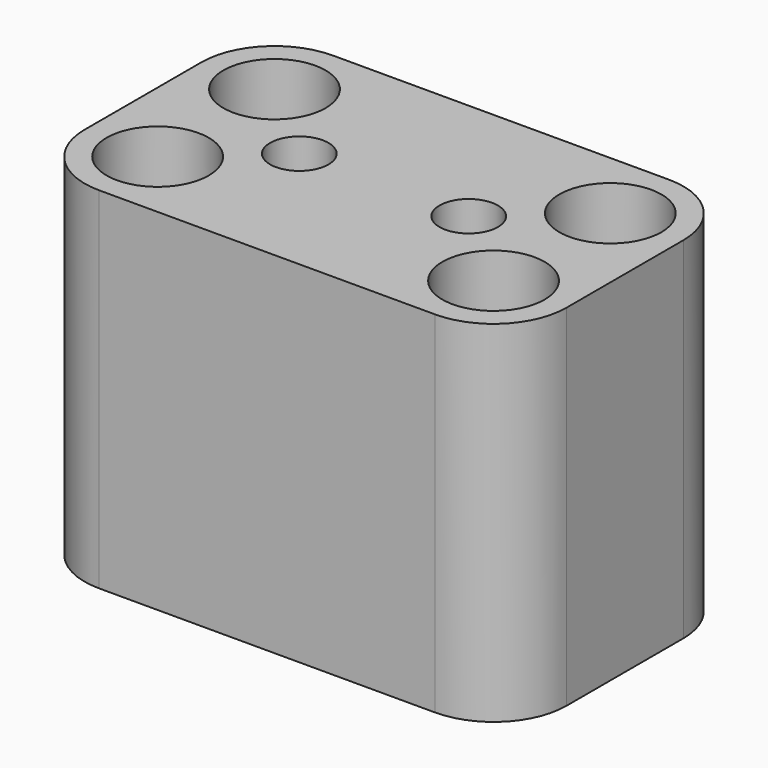
from build123d import *

# Parameters (mm, degrees)
F0_R     = 1.75
F1_DEPTH = 12
F2_DEPTH = 2


with BuildPart() as f1:
    # F0 (on Top) → F1 (new body)
    with BuildSketch(Plane.XY):
        with BuildLine():
            Line((-3.9, 0), (-8.25, 0))
            Line((-8.25, 0), (-8.25, -2.5))
            ThreePointArc((-8.25, -2.5), (-7.517767, -4.267767), (-5.75, -5))
            Line((-5.75, -5), (5.75, -5))
            ThreePointArc((5.75, -5), (7.517767, -4.267767), (8.25, -2.5))
            Line((8.25, -2.5), (8.25, 0))
            Line((8.25, 0), (3.9, 0))
            ThreePointArc((3.9, 0), (2.9, -1), (1.9, 0))
            Line((1.9, 0), (-1.9, 0))
            ThreePointArc((-1.9, 0), (-2.9, -1), (-3.9, 0))
        make_face()
        with Locations((-5.75, -2.5)):
            Circle(F0_R, mode=Mode.SUBTRACT)
        with Locations((5.75, -2.5)):
            Circle(F0_R, mode=Mode.SUBTRACT)
        with BuildLine():
            Line((5.75, 5), (-5.75, 5))
            ThreePointArc((-5.75, 5), (-7.517767, 4.267767), (-8.25, 2.5))
            Line((-8.25, 2.5), (-8.25, 0))
            Line((-8.25, 0), (-3.9, 0))
            ThreePointArc((-3.9, 0), (-2.9, 1), (-1.9, 0))
            Line((-1.9, 0), (1.9, 0))
            ThreePointArc((1.9, 0), (2.9, 1), (3.9, 0))
            Line((3.9, 0), (8.25, 0))
            Line((8.25, 0), (8.25, 2.5))
            ThreePointArc((8.25, 2.5), (7.517767, 4.267767), (5.75, 5))
        make_face()
        with Locations((-5.75, 2.5)):
            Circle(F0_R, mode=Mode.SUBTRACT)
        with Locations((5.75, 2.5)):
            Circle(F0_R, mode=Mode.SUBTRACT)
    extrude(amount=F1_DEPTH)

    # F0 (on Top) → F2 (join)
    with BuildSketch(Plane.XY):
        with Locations((-5.75, -2.5)):
            Circle(F0_R)
        with Locations((5.75, -2.5)):
            Circle(F0_R)
        with Locations((5.75, 2.5)):
            Circle(F0_R)
        with Locations((-5.75, 2.5)):
            Circle(F0_R)
    extrude(amount=F2_DEPTH)


solid = f1.part
